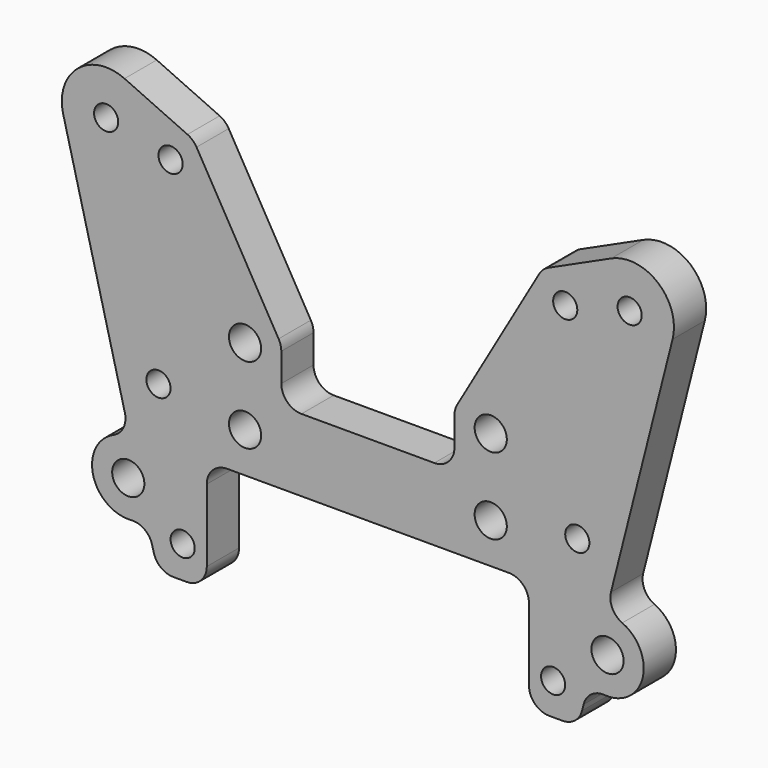
from build123d import *

# Parameters (mm, degrees)
F0_R     = 2
F0_R_2   = 1.5
F1_DEPTH = 5


with BuildPart() as f1:
    # F0 (on Front) → F1 (new body)
    with BuildSketch(Plane.XZ):
        with BuildLine():
            ThreePointArc((20, -11.5), (20.732233, -13.267767), (22.5, -14))
            Line((22.5, -14), (24.166667, -14))
            ThreePointArc((24.166667, -14), (25.701518, -13.473381), (26.589744, -12.115385))
            Line((26.589744, -12.115385), (26.780755, -11.363276))
            ThreePointArc((26.780755, -11.363276), (27.747195, -9.946861), (29.398892, -9.486282))
            ThreePointArc((29.398892, -9.486282), (34.111538, -6.107692), (31.582114, -0.889847))
            ThreePointArc((31.582114, -0.889847), (30.350345, 0.303041), (30.176878, 2.008956))
            Line((30.176878, 2.008956), (37.830769, 32.146154))
            ThreePointArc((37.830769, 32.146154), (36.025514, 37.721463), (30.21772, 38.504118))
            Line((30.21772, 38.504118), (22.403935, 34.940405))
            ThreePointArc((22.403935, 34.940405), (21.76066, 34.516571), (21.276965, 33.917007))
            Line((21.276965, 33.917007), (11.08563, 16.287694))
            ThreePointArc((11.08563, 16.287694), (10.835365, 15.684211), (10.75, 15.036493))
            Line((10.75, 15.036493), (10.75, 11.5))
            ThreePointArc((10.75, 11.5), (10.017767, 9.732233), (8.25, 9))
            Line((8.25, 9), (0, 9))
            Line((0, 9), (0, 0))
            Line((0, 0), (17.5, 0))
            ThreePointArc((17.5, 0), (19.267767, -0.732233), (20, -2.5))
            Line((20, -2.5), (20, -11.5))
        make_face()
        with Locations((15.25, 5)):
            Circle(F0_R, mode=Mode.SUBTRACT)
        with Locations((23, -10)):
            Circle(F0_R_2, mode=Mode.SUBTRACT)
        with Locations((29.75, -5)):
            Circle(F0_R, mode=Mode.SUBTRACT)
        with Locations((26, 6.5)):
            Circle(F0_R_2, mode=Mode.SUBTRACT)
        with Locations((15.25, 14.5)):
            Circle(F0_R, mode=Mode.SUBTRACT)
        with Locations((24.5, 31.5)):
            Circle(F0_R_2, mode=Mode.SUBTRACT)
        with Locations((32.5, 33.5)):
            Circle(F0_R_2, mode=Mode.SUBTRACT)
    extrude(amount=F1_DEPTH)

    # F2: F1 across plane


with BuildPart() as f1_1:
    add(f1.part)
    add(f1.part.mirror(Plane.YZ))


solid = f1_1.part
